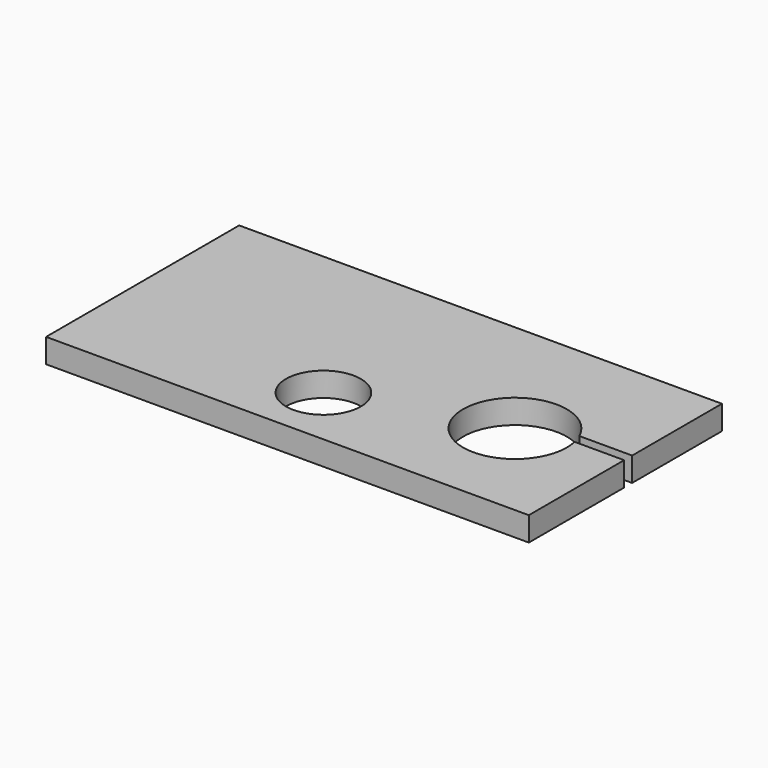
from build123d import *

# Parameters (mm, degrees)
BOX002_W          = 22
BOX002_H          = 4.15
BOX002_DEPTH      = 10
CYLINDER002_R     = 15.5
CYLINDER002_DEPTH = 10
CYLINDER001_R     = 21.5
CYLINDER001_DEPTH = 10
BOX001_W          = 200
BOX001_H          = 100
BOX001_DEPTH      = 10
CYLINDER_R        = 21.5
CYLINDER_DEPTH    = 10
BOX_W             = 80
BOX_H             = 80
BOX_DEPTH         = 10


with BuildPart() as cube:
    # Box002 → Box002 (new body)
    with BuildSketch(Plane(origin=(58, 49.36, 0), x_dir=(1, 0, 0), z_dir=(0, 0, 1))):
        with Locations((11, 2.075)):
            Rectangle(BOX002_W, BOX002_H)
    extrude(amount=BOX002_DEPTH)


with BuildPart() as cylinder002:
    # Cylinder002 → Cylinder002 (new body)
    with BuildSketch(Plane(origin=(-25.5, 25.5, 0), x_dir=(1, 0, 0), z_dir=(0, 0, 1))):
        Circle(CYLINDER002_R)
    extrude(amount=CYLINDER002_DEPTH)


with BuildPart() as cylinder001:
    # Cylinder001 → Cylinder001 (new body)
    with BuildSketch(Plane(origin=(38.5, 44.7, 0), x_dir=(1, 0, 0), z_dir=(0, 0, 1))):
        Circle(CYLINDER001_R)
    extrude(amount=CYLINDER001_DEPTH)


with BuildPart() as cut001:
    # Box001 → Box001 (new body)
    with BuildSketch(Plane(origin=(-120, 0, 0), x_dir=(1, 0, 0), z_dir=(0, 0, 1))):
        with Locations((100, 50)):
            Rectangle(BOX001_W, BOX001_H)
    extrude(amount=BOX001_DEPTH)

    # Cut001: cut Cylinder001
    add(cylinder001.part, mode=Mode.SUBTRACT)


with BuildPart() as cylinder:
    # Cylinder → Cylinder (new body)
    with BuildSketch(Plane(origin=(38.5, 44.7, 0), x_dir=(1, 0, 0), z_dir=(0, 0, 1))):
        Circle(CYLINDER_R)
    extrude(amount=CYLINDER_DEPTH)


with BuildPart() as cut003:
    # Box → Box (new body)
    with BuildSketch(Plane.XY):
        with Locations((40, 40)):
            Rectangle(BOX_W, BOX_H)
    extrude(amount=BOX_DEPTH)

    # Cut: cut Cylinder
    add(cylinder.part, mode=Mode.SUBTRACT)

    # Fusion: union Cut001
    add(cut001.part)

    # Cut002: cut Cylinder002
    add(cylinder002.part, mode=Mode.SUBTRACT)

    # Cut003: cut Cube
    add(cube.part, mode=Mode.SUBTRACT)


solid = cut003.part
